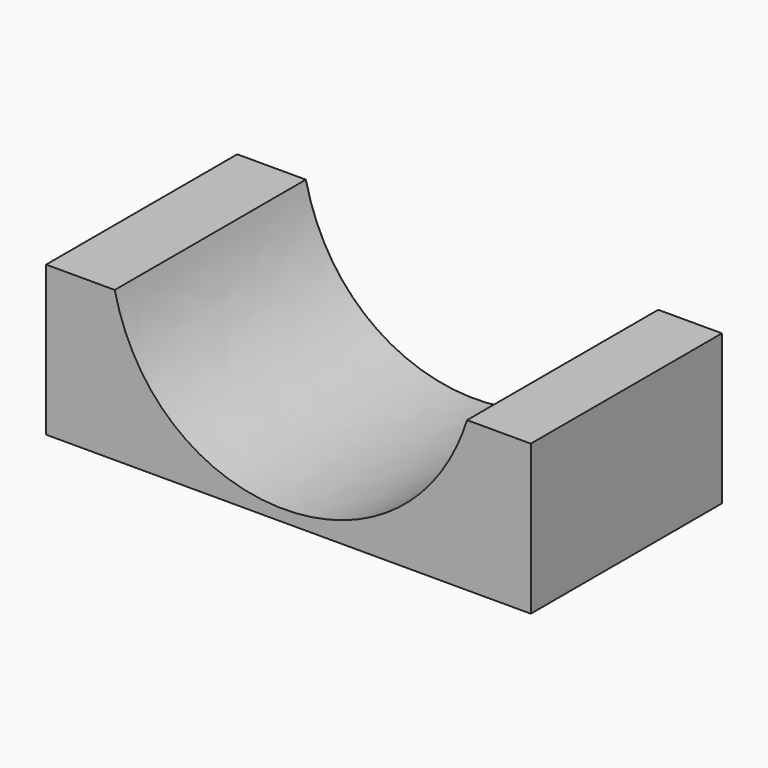
from build123d import *

# Parameters (mm, degrees)
F1_DEPTH      = 0.254
F1_DEPTH_BACK = 75.946


with BuildPart() as f1:
    # F0 (on Front) → F1 (new body, two sides)
    with BuildSketch(Plane.XZ) as f1_sk:
        with BuildLine():
            Line((-76.1802718043, 0), (0, 0))
            Line((0, 0), (78.4120279026, 0))
            Line((78.4120279026, 0), (78.4120279026, 47.7582737803))
            Line((78.4120279026, 47.7582737803), (58.0920279026, 47.7582737803))
            add(Edge.make_bspline(
                [(-54.2813576758, 47.7582737803), (-40.7692566514, -11.4153893664), (39.3381714821, -10.4835210368), (58.0920279026, 47.7582737803)],
                knots=[0, 0, 0, 0, 112.3733855784, 112.3733855784, 112.3733855784, 112.3733855784], degree=3))
            Line((-54.2813576758, 47.7582737803), (-76.1802718043, 47.7582737803))
            Line((-76.1802718043, 47.7582737803), (-76.1802718043, 0))
        make_face()
    extrude(amount=-F1_DEPTH)
    extrude(f1_sk.sketch, amount=F1_DEPTH_BACK)


solid = f1.part
